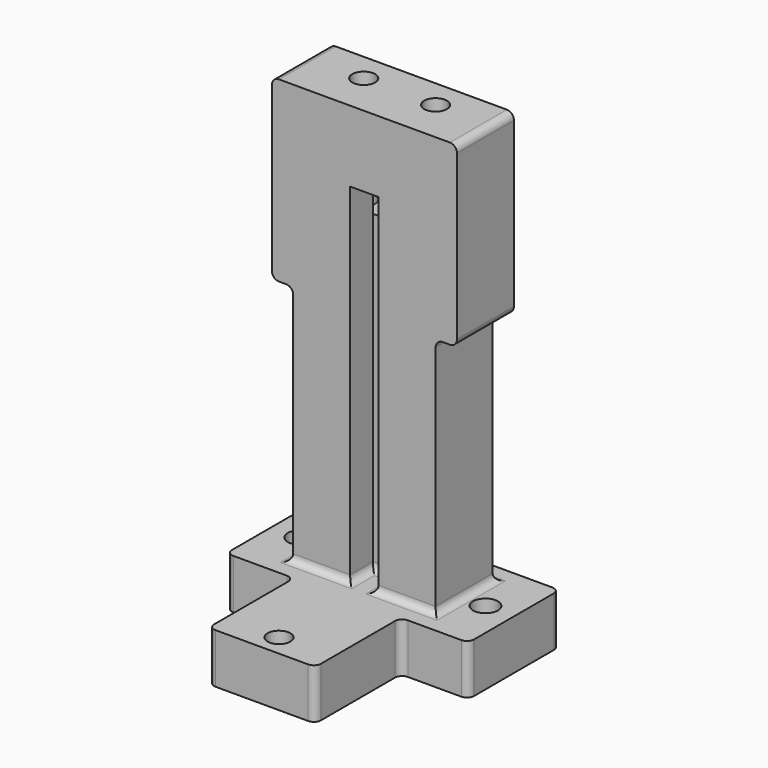
from build123d import *

# Parameters (mm, degrees)
SKETCH_W           = 20
SKETCH_H           = 10
PAD_DEPTH          = 60
SKETCH001_W        = 50
SKETCH001_H        = 10
PAD001_DEPTH       = 10
PAD001_FACE6_W     = 10
PAD001_FACE6_H     = 15
PAD002_DEPTH       = 5
PAD002_FACE5_W     = 10
PAD002_FACE5_H     = 15
PAD003_DEPTH       = 5
SKETCH002_W        = 20
SKETCH002_H        = 11
POCKET_DEPTH       = 6
PAD004_DEPTH       = 10
PAD005_DEPTH       = 10
PAD005_FACE15_W    = 10
PAD005_FACE15_H    = 25
POCKET001_DEPTH    = 12
POCKET001_FACE3_W  = 10
POCKET001_FACE3_H  = 25
POCKET002_DEPTH    = 12
SKETCH003_W        = 4
SKETCH003_H        = 56
POCKET003_DEPTH    = 4
SKETCH004_R        = 1.6
POCKET004_DEPTH    = 30
SKETCH005_W        = 30
SKETCH005_H        = 12
PAD006_DEPTH       = 7
SKETCH006_R        = 1.75
POCKET005_DEPTH    = 9
POCKET005_FACE23_W = 12
POCKET005_FACE23_H = 7
PAD007_DEPTH       = 2
PAD007_FACE1_W     = 12
PAD007_FACE1_H     = 7
PAD008_DEPTH       = 2
FILLET_R           = 1
FILLET_FACE10_W    = 34
FILLET_FACE10_H    = 7
PAD009_DEPTH       = 2
PAD009_FACE3_W     = 34
PAD009_FACE3_H     = 7
PAD010_DEPTH       = 2
FILLET001_R        = 1
FILLET002_R        = 1
FILLET003_R        = 1
SKETCH007_W        = 15
SKETCH007_H        = 7
PAD011_DEPTH       = 15
FILLET004_R        = 1
SKETCH008_R        = 1.6
POCKET006_DEPTH    = 10


with BuildPart() as part:
    # Sketch → Pad (new body)
    with BuildSketch(Plane.XY):
        Rectangle(SKETCH_W, SKETCH_H)
    extrude(amount=PAD_DEPTH)

    # Sketch001 (on Face2 of Pad) → Pad001 (join)
    with BuildSketch(Plane.XZ.offset(5)):
        with Locations((0, 61)):
            Rectangle(SKETCH001_W, SKETCH001_H)
    extrude(amount=-PAD001_DEPTH)

    # Pad001 Face6 → Pad002 (add)
    with BuildSketch(Plane(origin=(17.5, 0, 56), x_dir=(0, -1, 0), z_dir=(0, 0, -1))):
        Rectangle(PAD001_FACE6_W, PAD001_FACE6_H)
    extrude(amount=PAD002_DEPTH)

    # Pad002 Face5 → Pad003 (add)
    with BuildSketch(Plane(origin=(-17.5, 0, 56), x_dir=(0, -1, 0), z_dir=(0, 0, -1))):
        Rectangle(PAD002_FACE5_W, PAD002_FACE5_H)
    extrude(amount=PAD003_DEPTH)

    # Sketch002 (on Face10 of Pad003) → Pocket (cut)
    with BuildSketch(Plane(origin=(0, 5, 0), x_dir=(-1, 0, 0), z_dir=(0, 1, 0))):
        with Locations((0, 56.5)):
            Rectangle(SKETCH002_W, SKETCH002_H)
    extrude(amount=-POCKET_DEPTH, mode=Mode.SUBTRACT)

    # Pocket Face6 → Pad004 (add)
    with BuildSketch(Plane(origin=(-17.5, 0, 51), x_dir=(0, -1, 0), z_dir=(0, 0, -1))):
        Polygon((5, -7.5), (5, 7.5), (-5, 7.5), (-5, -7.5), (1, -7.5), align=None)
    extrude(amount=PAD004_DEPTH)

    # Pad004 Face5 → Pad005 (add)
    with BuildSketch(Plane(origin=(17.5, 0, 51), x_dir=(0, -1, 0), z_dir=(0, 0, -1))):
        Polygon((5, -7.5), (5, 7.5), (1, 7.5), (-5, 7.5), (-5, -7.5), align=None)
    extrude(amount=PAD005_DEPTH)

    # Pad005 Face15 → Pocket001 (cut)
    with BuildSketch(Plane(origin=(25, 0, 53.5), x_dir=(0, -1, 0), z_dir=(1, 0, 0))):
        Rectangle(PAD005_FACE15_W, PAD005_FACE15_H)
    extrude(amount=-POCKET001_DEPTH, mode=Mode.SUBTRACT)

    # Pocket001 Face3 → Pocket002 (cut)
    with BuildSketch(Plane(origin=(-25, 0, 53.5), x_dir=(0, 1, 0), z_dir=(-1, 0, 0))):
        Rectangle(POCKET001_FACE3_W, POCKET001_FACE3_H)
    extrude(amount=-POCKET002_DEPTH, mode=Mode.SUBTRACT)

    # Sketch003 (on Face2 of Pocket002) → Pocket003 (cut)
    with BuildSketch(Plane.XZ.offset(5)):
        with Locations((0, 28)):
            Rectangle(SKETCH003_W, SKETCH003_H)
    extrude(amount=-POCKET003_DEPTH, mode=Mode.SUBTRACT)

    # Sketch004 (on Face1 of Pocket003) → Pocket004 (cut)
    with BuildSketch(Plane.XY.offset(66)):
        with Locations((-4.9, 1)):
            Circle(SKETCH004_R)
        with Locations((5.2, 1)):
            Circle(SKETCH004_R)
    extrude(amount=-POCKET004_DEPTH, mode=Mode.SUBTRACT)

    # Sketch005 (on Face12 of Pocket004) → Pad006 (join)
    with BuildSketch(Plane(origin=(0, 0, 0), x_dir=(1, 0, 0), z_dir=(0, 0, -1))):
        Rectangle(SKETCH005_W, SKETCH005_H)
    extrude(amount=-PAD006_DEPTH)

    # Sketch006 (on Face12 of Pad006) → Pocket005 (cut)
    with BuildSketch(Plane.XY.offset(7)):
        with Locations((13, 0)):
            Circle(SKETCH006_R)
        with Locations((-13, 0)):
            Circle(SKETCH006_R)
    extrude(amount=-POCKET005_DEPTH, mode=Mode.SUBTRACT)

    # Pocket005 Face23 → Pad007 (add)
    with BuildSketch(Plane(origin=(15, 0, 3.5), x_dir=(0, -1, 0), z_dir=(1, 0, 0))):
        Rectangle(POCKET005_FACE23_W, POCKET005_FACE23_H)
    extrude(amount=PAD007_DEPTH)

    # Pad007 Face1 → Pad008 (add)
    with BuildSketch(Plane(origin=(-15, 0, 3.5), x_dir=(0, 1, 0), z_dir=(-1, 0, 0))):
        Rectangle(PAD007_FACE1_W, PAD007_FACE1_H)
    extrude(amount=PAD008_DEPTH)

    # Fillet
    fillet_edges = [part.edges().sort_by_distance(p)[0] for p in [
        (0, -1, 7),
        (-2, -3, 7),
        (2, -3, 7),
    ]]
    fillet(fillet_edges, radius=FILLET_R)

    # Fillet Face10 → Pad009 (add)
    with BuildSketch(Plane(origin=(0, 6, 3.5), x_dir=(1, 0, 0), z_dir=(0, 1, 0))):
        Rectangle(FILLET_FACE10_W, FILLET_FACE10_H)
    extrude(amount=PAD009_DEPTH)

    # Pad009 Face3 → Pad010 (add)
    with BuildSketch(Plane(origin=(0, -6, 3.5), x_dir=(-1, 0, 0), z_dir=(0, -1, 0))):
        Rectangle(PAD009_FACE3_W, PAD009_FACE3_H)
    extrude(amount=PAD010_DEPTH)

    # Fillet001
    fillet001_edges = [part.edges().sort_by_distance(p)[0] for p in [
        (0, 5, 7),
        (-10, 0, 7),
        (10, 0, 7),
        (5.5, -5, 7),
        (-5.5, -5, 7),
    ]]
    fillet(fillet001_edges, radius=FILLET001_R)

    # Fillet002
    fillet002_edges = [part.edges().sort_by_distance(p)[0] for p in [
        (10, 0, 41),
        (13, 0, 41),
        (-10, 0, 41),
        (-13, 0, 41),
    ]]
    fillet(fillet002_edges, radius=FILLET002_R)

    # Fillet003
    fillet003_edges = [part.edges().sort_by_distance(p)[0] for p in [
        (-13, 0, 66),
        (13, 0, 66),
        (-17, 8, 3.5),
        (-17, -8, 3.5),
        (17, 8, 3.5),
        (17, -8, 3.5),
    ]]
    fillet(fillet003_edges, radius=FILLET003_R)

    # Sketch007 (on Face42 of Fillet003) → Pad011 (join)
    with BuildSketch(Plane.XZ.offset(8)):
        with Locations((0, 3.5)):
            Rectangle(SKETCH007_W, SKETCH007_H)
    extrude(amount=PAD011_DEPTH)

    # Fillet004
    fillet004_edges = [part.edges().sort_by_distance(p)[0] for p in [
        (-7.5, -23, 3.5),
        (7.5, -23, 3.5),
        (-7.5, -8, 3.5),
        (7.5, -8, 3.5),
    ]]
    fillet(fillet004_edges, radius=FILLET004_R)

    # Sketch008 (on Face5 of Fillet004) → Pocket006 (cut)
    with BuildSketch(Plane.XY.offset(7)):
        with Locations((0, -20)):
            Circle(SKETCH008_R)
    extrude(amount=-POCKET006_DEPTH, mode=Mode.SUBTRACT)


solid = part.part
